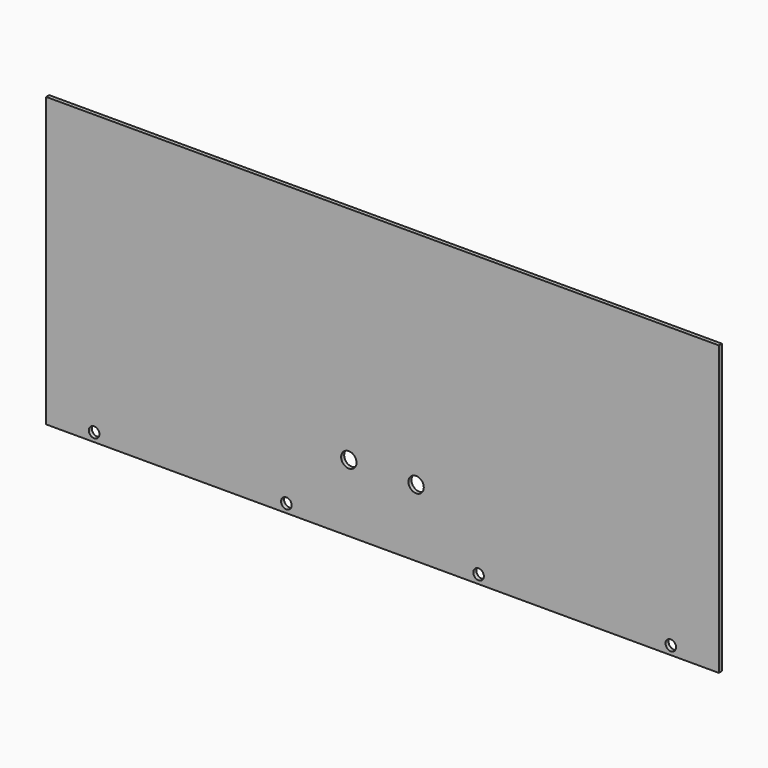
from build123d import *

# Parameters (mm, degrees)
F0_W     = 350
F0_H     = 150
F1_DEPTH = 2
F2_R     = 4
F3_DEPTH = 25
F5_D     = 5.5
F5_DEPTH = 13
F5_TIP   = 1.6523667023


with BuildPart() as f1:
    # F0 (on Front) → F1 (new body)
    with BuildSketch(Plane.XZ):
        Rectangle(F0_W, F0_H)
    extrude(amount=F1_DEPTH)

    # F2 (on face) → F3 (cut)
    with BuildSketch(Plane.XZ.offset(2)):
        with Locations((-17.5, -40)):
            Circle(F2_R)
        with Locations((17.5, -40)):
            Circle(F2_R)
    extrude(amount=-F3_DEPTH, mode=Mode.SUBTRACT)

    # F5
    with Locations(Plane.XZ.offset(2)):
        with Locations((-150, -70.5), (-50, -70.5), (50, -70.5), (150, -70.5)):
            Hole(F5_D / 2, depth=F5_DEPTH)
            with Locations((0, 0, -(F5_DEPTH + F5_TIP / 2))):  # 118° drill point
                Cone(0, F5_D / 2, F5_TIP, mode=Mode.SUBTRACT)


solid = f1.part
